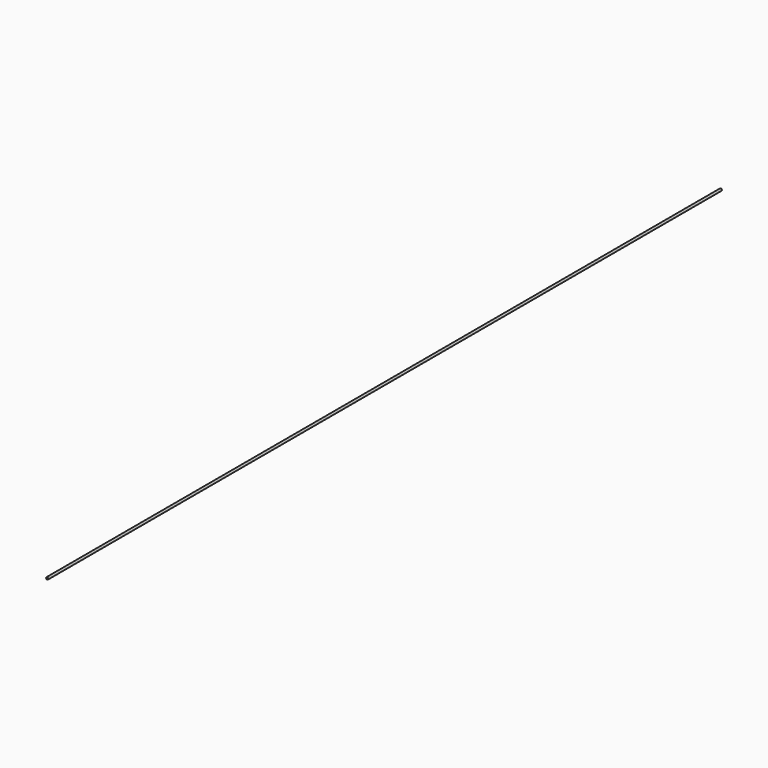
from build123d import *

# Parameters (mm, degrees)
F0_R = 1


with BuildPart() as f2:
    # F2: sweep along a path in F1
    with BuildLine(Plane.YZ) as f2_path:
        Line((0, 0), (-750, 0))
    # F0 (on Front) → F2 (sweep)
    with BuildSketch(Plane.XZ):
        Circle(F0_R)
    sweep(path=f2_path.line)


solid = f2.part
